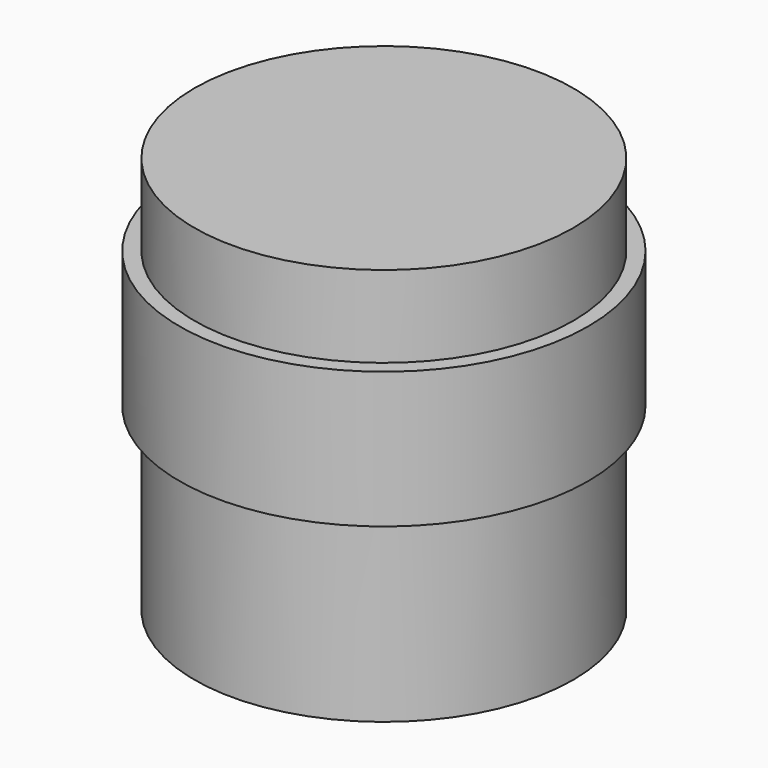
from build123d import *

# Parameters (mm, degrees)
F0_R     = 6.95
F1_DEPTH = 6.6
F2_R     = 7.5
F3_DEPTH = 5
F4_R     = 6.95
F5_DEPTH = 3
F6_R     = 3
F7_DEPTH = 13


with BuildPart() as f1:
    # F0 (on Top) → F1 (new body)
    with BuildSketch(Plane.XY):
        Circle(F0_R)
    extrude(amount=F1_DEPTH)

    # F2 (on face) → F3 (join)
    with BuildSketch(Plane.XY.offset(6.6)):
        Circle(F2_R)
    extrude(amount=F3_DEPTH)

    # F4 (on face) → F5 (join)
    with BuildSketch(Plane.XY.offset(11.6)):
        Circle(F4_R)
    extrude(amount=F5_DEPTH)

    # F6 (on face) → F7 (cut)
    with BuildSketch(Plane(origin=(0, 0, 0), x_dir=(1, 0, 0), z_dir=(0, 0, -1))):
        Circle(F6_R)
    extrude(amount=-F7_DEPTH, mode=Mode.SUBTRACT)


solid = f1.part
